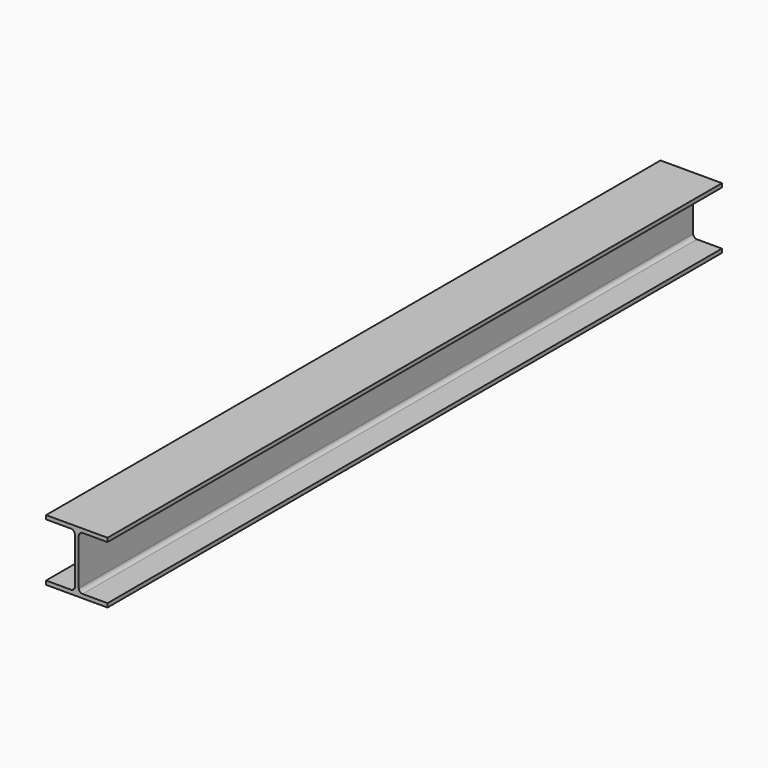
from build123d import *

# Parameters (mm, degrees)
F1_DEPTH = 1270


with BuildPart() as f1:
    # F0 (on Front) → F1 (new body)
    with BuildSketch(Plane.XZ):
        with BuildLine():
            Line((50.8, 50.8), (0, 50.8))
            Line((0, 50.8), (-50.8, 50.8))
            Line((-50.8, 50.8), (-50.8, 44.45))
            Line((-50.8, 44.45), (-9.525, 44.45))
            ThreePointArc((-9.525, 44.45), (-5.034872, 42.590128), (-3.175, 38.1))
            Line((-3.175, 38.1), (-3.175, 0))
            Line((-3.175, 0), (-3.175, -38.1))
            ThreePointArc((-3.175, -38.1), (-5.034872, -42.590128), (-9.525, -44.45))
            Line((-9.525, -44.45), (-50.8, -44.45))
            Line((-50.8, -44.45), (-50.8, -50.8))
            Line((-50.8, -50.8), (0, -50.8))
            Line((0, -50.8), (50.8, -50.8))
            Line((50.8, -50.8), (50.8, -44.45))
            Line((50.8, -44.45), (9.525, -44.45))
            ThreePointArc((9.525, -44.45), (5.034872, -42.590128), (3.175, -38.1))
            Line((3.175, -38.1), (3.175, 0))
            Line((3.175, 0), (3.175, 38.1))
            ThreePointArc((3.175, 38.1), (5.034872, 42.590128), (9.525, 44.45))
            Line((9.525, 44.45), (50.8, 44.45))
            Line((50.8, 44.45), (50.8, 50.8))
        make_face()
    extrude(amount=F1_DEPTH)


solid = f1.part
